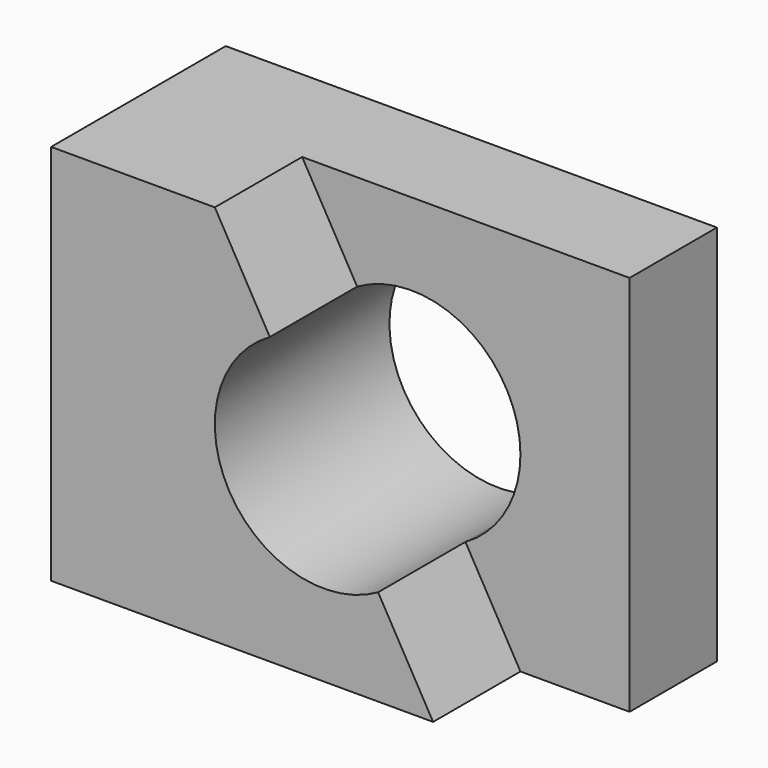
from build123d import *

# Parameters (mm, degrees)
F0_W     = 57.15
F0_H     = 44.45
F1_DEPTH = 25.4
F3_DEPTH = 12.7
F5_DEPTH = 25.401


with BuildPart() as f1:
    # F0 (on Front) → F1 (new body)
    with BuildSketch(Plane.XZ):
        with Locations((28.575, 22.225)):
            Rectangle(F0_W, F0_H)
    extrude(amount=F1_DEPTH)

    # F2 (on face) → F3 (cut)
    with BuildSketch(Plane.XZ.offset(25.4)):
        Polygon((57.15, 44.45), (19.05, 44.45), (44.45, 0), (57.15, 0), align=None)
    extrude(amount=-F3_DEPTH, mode=Mode.SUBTRACT)

    # F4 (on face) → F5 (cut, through all)
    with BuildSketch(Plane.XZ.offset(25.4)):
        with BuildLine():
            Line((38.050965, 11.198312), (25.449035, 33.251688))
            ThreePointArc((25.449035, 33.251688), (20.723312, 15.924035), (38.050965, 11.198312))
        make_face()
        with BuildLine():
            ThreePointArc((38.050965, 11.198312), (42.734358, 15.850529), (44.45, 22.225))
            ThreePointArc((44.45, 22.225), (38.124471, 33.209358), (25.449035, 33.251688))
            Line((25.449035, 33.251688), (38.050965, 11.198312))
        make_face()
    extrude(amount=-F5_DEPTH, mode=Mode.SUBTRACT)


solid = f1.part
